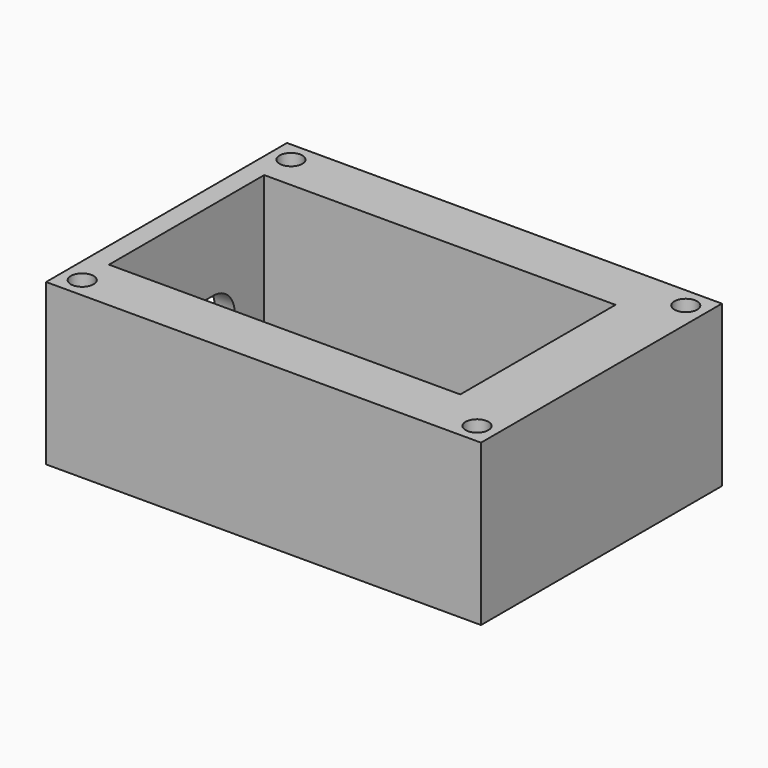
from build123d import *

# Parameters (mm, degrees)
SKETCH_W        = 65
SKETCH_H        = 45
PAD_DEPTH       = 24
SKETCH001_W     = 52.5
SKETCH001_H     = 29
POCKET_DEPTH    = 20
SKETCH002_R     = 1.7
SKETCH002_W     = 36.5
SKETCH002_H     = 29
POCKET001_DEPTH = 24.001
POCKET002_DEPTH = 3


with BuildPart() as part:
    # Sketch → Pad (new body)
    with BuildSketch(Plane.XY):
        with Locations((32.5, 22.5)):
            Rectangle(SKETCH_W, SKETCH_H)
    extrude(amount=PAD_DEPTH)

    # Sketch001 (on Face6 of Pad) → Pocket (cut)
    with BuildSketch(Plane.XY.offset(24)):
        with Locations((29.25, 22.5)):
            Rectangle(SKETCH001_W, SKETCH001_H)
    extrude(amount=-POCKET_DEPTH, mode=Mode.SUBTRACT)

    # Sketch002 (on Face5 of Pocket) → Pocket001 (cut, through all)
    with BuildSketch(Plane.XY.offset(24)):
        with Locations((3, 42)):
            Circle(SKETCH002_R)
        with Locations((62, 42)):
            Circle(SKETCH002_R)
        with Locations((62, 3)):
            Circle(SKETCH002_R)
        with Locations((3, 3)):
            Circle(SKETCH002_R)
        with Locations((29.25, 22.5)):
            Rectangle(SKETCH002_W, SKETCH002_H)
    extrude(amount=-POCKET001_DEPTH, mode=Mode.SUBTRACT)

    # Sketch003 (on Face2 of Pocket001) → Pocket002 (cut)
    with BuildSketch(Plane(origin=(0, 0, 0), x_dir=(0, -1, 0), z_dir=(-1, 0, 0))):
        with BuildLine():
            ThreePointArc((-27.5, 12), (-31.5, 8), (-27.5, 4))
            Line((-27.5, 4), (-17.5, 4))
            ThreePointArc((-17.5, 4), (-13.5, 8), (-17.5, 12))
            Line((-27.5, 12), (-17.5, 12))
        make_face()
    extrude(amount=-POCKET002_DEPTH, mode=Mode.SUBTRACT)


solid = part.part
